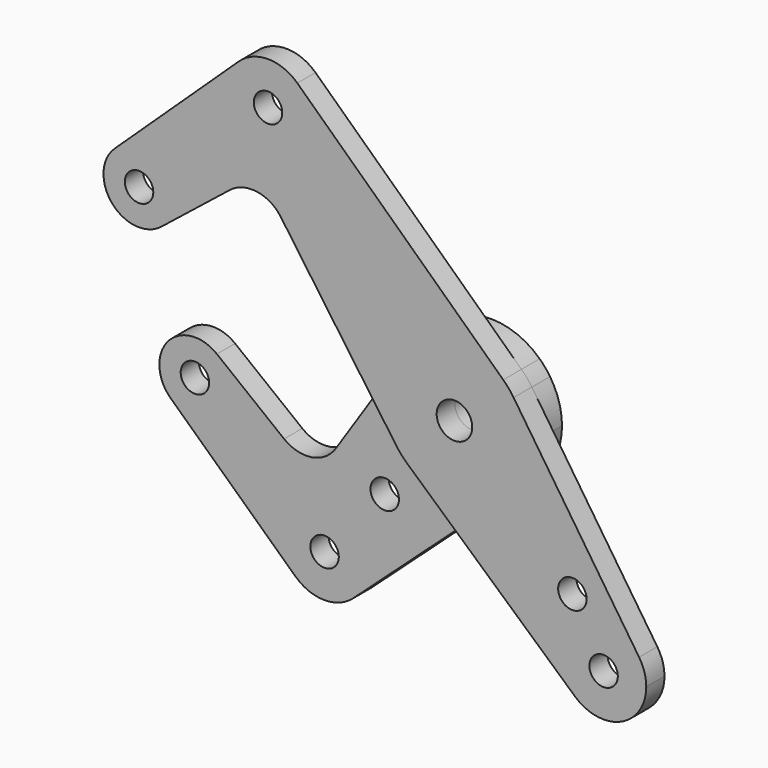
from build123d import *

# Parameters (mm, degrees)
F0_R     = 3.175
F0_R_2   = 3.96875
F2_DEPTH = 5.08
F3_DEPTH = 5.08


with BuildPart() as f2:
    # F0 (on Front) → F2 (new body)
    with BuildSketch(Plane.XZ):
        with BuildLine():
            ThreePointArc((-62.4511918078, 23.0063483758), (-67.2442419203, 30.2944442282), (-75.8348368232, 28.7807237291))
            ThreePointArc((-75.8348368232, 28.7807237291), (-76.3849752141, 17.8055319436), (-65.4422370763, 16.798571653))
            ThreePointArc((-65.4422370763, 16.798571653), (-63.237943921, 19.5609585706), (-62.4511918078, 23.0063483758))
        make_face()
        with Locations((-70.3886918078, 23.0063483758)):
            Circle(F0_R, mode=Mode.SUBTRACT)
        with BuildLine():
            ThreePointArc((-13.2524193062, 8.7400805221), (-1.834314477, 15.7686687897), (10.8922900307, 11.5487507067))
            Line((10.8922900307, 11.5487507067), (-35.0711574392, 54.8995176744))
            ThreePointArc((-35.0711574392, 54.8995176744), (-32.8608164346, 51.7436071154), (-32.0815314576, 47.9702672503))
            ThreePointArc((-32.0815314576, 47.9702672503), (-45.3798713227, 39.2245522274), (-48.1419054761, 54.8995176744))
            Line((-48.1419054761, 54.8995176744), (-75.8348368232, 28.7807237291))
            ThreePointArc((-75.8348368232, 28.7807237291), (-67.2442419203, 30.2944442282), (-62.4511918078, 23.0063483758))
            ThreePointArc((-62.4511918078, 23.0063483758), (-63.237943921, 19.5609585706), (-65.4422370763, 16.798571653))
            Line((-65.4422370763, 16.798571653), (-50.1509863937, 28.9828821829))
            ThreePointArc((-50.1509863937, 28.9828821829), (-44.0823996147, 30.6328866939), (-38.7182233604, 27.3502241323))
            Line((-38.7182233604, 27.3502241323), (-19.2147683858, -0.3005169703))
            Line((-19.2147683858, -0.3005169703), (-13.2524193062, 8.7400805221))
        make_face()
        with BuildLine():
            ThreePointArc((-32.0815314576, 47.9702672503), (-32.8608164346, 51.7436071154), (-35.0711574392, 54.8995176744))
            ThreePointArc((-35.0711574392, 54.8995176744), (-41.6065314576, 57.4952672503), (-48.1419054761, 54.8995176744))
            ThreePointArc((-48.1419054761, 54.8995176744), (-45.3798713227, 39.2245522274), (-32.0815314576, 47.9702672503))
        make_face()
        with Locations((-41.6065314576, 47.9702672503)):
            Circle(F0_R, mode=Mode.SUBTRACT)
        with BuildLine():
            ThreePointArc((15.875, 0), (15.1912005478, 4.609018433), (13.1987101208, 8.820979319))
            ThreePointArc((13.1987101208, 8.820979319), (12.1224690662, 10.2499448164), (10.8922900307, 11.5487507067))
            ThreePointArc((10.8922900307, 11.5487507067), (-1.834314477, 15.7686687897), (-13.2524193062, 8.7400805221))
            ThreePointArc((-13.2524193062, 8.7400805221), (-15.8730587934, -0.2482529814), (-12.9726166036, -9.1502373442))
            ThreePointArc((-12.9726166036, -9.1502373442), (-11.8607666217, -10.5516747555), (-10.5983019047, -11.8191210221))
            ThreePointArc((-10.5983019047, -11.8191210221), (0.0485522706, -15.8749257534), (10.6703987497, -11.7540722953))
            ThreePointArc((10.6703987497, -11.7540722953), (14.5156502636, -6.4274040191), (15.875, 0))
        make_face()
        Circle(F0_R_2, mode=Mode.SUBTRACT)
        with BuildLine():
            ThreePointArc((-12.9726166036, -9.1502373442), (-15.8730587934, -0.2482529814), (-13.2524193062, 8.7400805221))
            Line((-13.2524193062, 8.7400805221), (-19.2147683858, -0.3005169703))
            Line((-19.2147683858, -0.3005169703), (-12.9726166036, -9.1502373442))
        make_face()
        with BuildLine():
            Line((-10.5983019047, -11.8191210221), (0.0653932355, -21.3813431455))
            Line((0.0653932355, -21.3813431455), (10.6703987497, -11.7540722953))
            ThreePointArc((10.6703987497, -11.7540722953), (0.0485522706, -15.8749257534), (-10.5983019047, -11.8191210221))
        make_face()
        with BuildLine():
            ThreePointArc((26.9262440233, -45.4676864135), (27.0442454474, -31.1806737127), (41.2044512386, -33.0836262089))
            Line((41.2044512386, -33.0836262089), (13.1987101208, 8.820979319))
            ThreePointArc((13.1987101208, 8.820979319), (15.1912005478, 4.609018433), (15.875, 0))
            ThreePointArc((15.875, 0), (14.5156502636, -6.4274040191), (10.6703987497, -11.7540722953))
            Line((10.6703987497, -11.7540722953), (0.0653932355, -21.3813431455))
            Line((0.0653932355, -21.3813431455), (26.9262440233, -45.4676864135))
        make_face()
        with Locations((26.3222689506, -25.5025770961)):
            Circle(F0_R, mode=Mode.SUBTRACT)
        with BuildLine():
            ThreePointArc((26.9262440233, -45.4676864135), (37.1682864336, -47.0737686401), (42.8102251661, -38.3762138003))
            ThreePointArc((42.8102251661, -38.3762138003), (42.3999454948, -35.6108027404), (41.2044512386, -33.0836262089))
            ThreePointArc((41.2044512386, -33.0836262089), (27.0442454474, -31.1806737127), (26.9262440233, -45.4676864135))
        make_face()
        with Locations((33.2852251661, -38.3762138003)):
            Circle(F0_R, mode=Mode.SUBTRACT)
    extrude(amount=F2_DEPTH)


with BuildPart() as f3:
    # F0 (on Front) → F3 (new body)
    with BuildSketch(Plane.XZ):
        with BuildLine():
            Line((-10.5983019047, -11.8191210221), (0.0653932355, -21.3813431455))
            Line((0.0653932355, -21.3813431455), (10.6703987497, -11.7540722953))
            ThreePointArc((10.6703987497, -11.7540722953), (0.0485522706, -15.8749257534), (-10.5983019047, -11.8191210221))
        make_face()
        with BuildLine():
            ThreePointArc((-12.9726166036, -9.1502373442), (-15.8730587934, -0.2482529814), (-13.2524193062, 8.7400805221))
            Line((-13.2524193062, 8.7400805221), (-19.2147683858, -0.3005169703))
            Line((-19.2147683858, -0.3005169703), (-12.9726166036, -9.1502373442))
        make_face()
        with BuildLine():
            ThreePointArc((15.875, 0), (15.1912005478, 4.609018433), (13.1987101208, 8.820979319))
            ThreePointArc((13.1987101208, 8.820979319), (12.1224690662, 10.2499448164), (10.8922900307, 11.5487507067))
            ThreePointArc((10.8922900307, 11.5487507067), (-1.834314477, 15.7686687897), (-13.2524193062, 8.7400805221))
            ThreePointArc((-13.2524193062, 8.7400805221), (-15.8730587934, -0.2482529814), (-12.9726166036, -9.1502373442))
            ThreePointArc((-12.9726166036, -9.1502373442), (-11.8607666217, -10.5516747555), (-10.5983019047, -11.8191210221))
            ThreePointArc((-10.5983019047, -11.8191210221), (0.0485522706, -15.8749257534), (10.6703987497, -11.7540722953))
            ThreePointArc((10.6703987497, -11.7540722953), (14.5156502636, -6.4274040191), (15.875, 0))
        make_face()
        Circle(F0_R_2, mode=Mode.SUBTRACT)
        with BuildLine():
            Line((-26.647623873, -45.6315380732), (0.0653932355, -21.3813431455))
            Line((0.0653932355, -21.3813431455), (-10.5983019047, -11.8191210221))
            ThreePointArc((-10.5983019047, -11.8191210221), (-11.8607666217, -10.5516747555), (-12.9726166036, -9.1502373442))
            Line((-12.9726166036, -9.1502373442), (-19.2147683858, -0.3005169703))
            Line((-19.2147683858, -0.3005169703), (-30.5474012326, -17.4839744853))
            ThreePointArc((-30.5474012326, -17.4839744853), (-35.9047663103, -20.9493627188), (-42.0820013957, -19.3518512525))
            Line((-42.0820013957, -19.3518512525), (-57.0757936348, -7.5537803256))
            ThreePointArc((-57.0757936348, -7.5537803256), (-54.8440071189, -10.3244537385), (-54.0466841448, -13.7916973539))
            ThreePointArc((-54.0466841448, -13.7916973539), (-58.817458973, -21.070142101), (-67.394906617, -19.5992776228))
            Line((-67.394906617, -19.5992776228), (-39.5427300894, -45.5481910186))
            ThreePointArc((-39.5427300894, -45.5481910186), (-36.849933329, -29.8449609995), (-23.5248631228, -38.579094696))
            ThreePointArc((-23.5248631228, -38.579094696), (-24.3404729646, -42.4355371074), (-26.647623873, -45.6315380732))
        make_face()
        with Locations((-19.6233562292, -22.9063374758)):
            Circle(F0_R, mode=Mode.SUBTRACT)
        with BuildLine():
            ThreePointArc((-39.5427300894, -45.5481910186), (-33.1114263313, -48.1038957423), (-26.647623873, -45.6315380732))
            ThreePointArc((-26.647623873, -45.6315380732), (-24.3404729646, -42.4355371074), (-23.5248631228, -38.579094696))
            ThreePointArc((-23.5248631228, -38.579094696), (-36.849933329, -29.8449609995), (-39.5427300894, -45.5481910186))
        make_face()
        with Locations((-33.0498631228, -38.579094696)):
            Circle(F0_R, mode=Mode.SUBTRACT)
        with BuildLine():
            ThreePointArc((-57.0757936348, -7.5537803256), (-68.0121676911, -8.627656241), (-67.394906617, -19.5992776228))
            ThreePointArc((-67.394906617, -19.5992776228), (-58.817458973, -21.070142101), (-54.0466841448, -13.7916973539))
            ThreePointArc((-54.0466841448, -13.7916973539), (-54.8440071189, -10.3244537385), (-57.0757936348, -7.5537803256))
        make_face()
        with Locations((-61.9841841448, -13.7916973539)):
            Circle(F0_R, mode=Mode.SUBTRACT)
    extrude(amount=-F3_DEPTH)


solid = Compound([f2.part, f3.part])
